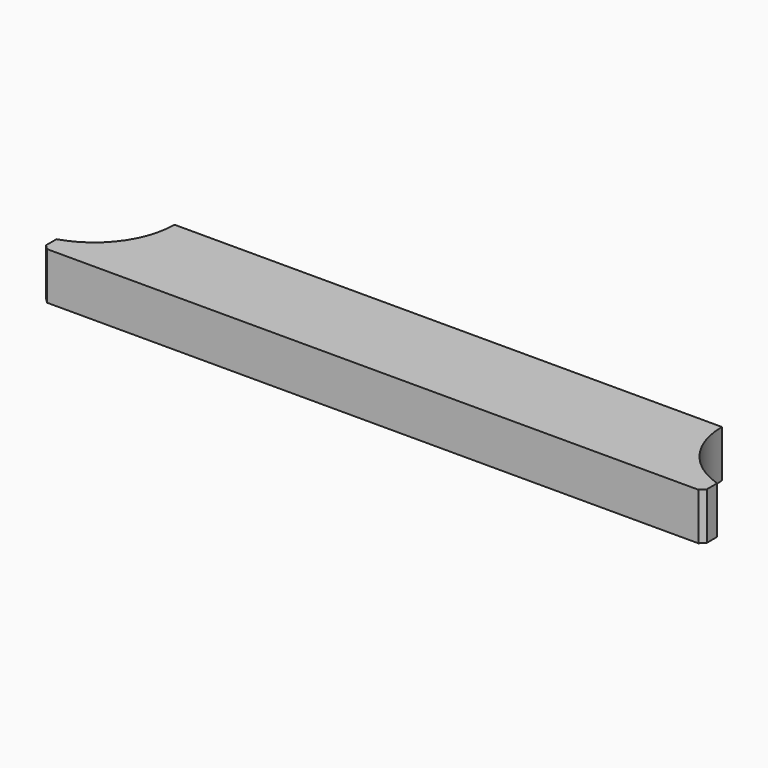
from build123d import *

# Parameters (mm, degrees)
CYLINDER006_R     = 17
CYLINDER006_DEPTH = 10
CYLINDER007_R     = 17
CYLINDER007_DEPTH = 10
BOX003_W          = 140
BOX003_H          = 20
BOX003_DEPTH      = 10
CHAMFER_SIZE      = 1


with BuildPart() as cylinder006:
    # Cylinder006 → Cylinder006 (new body)
    with BuildSketch(Plane(origin=(-75, 0, 0), x_dir=(1, 0, 0), z_dir=(0, 0, 1))):
        Circle(CYLINDER006_R)
    extrude(amount=CYLINDER006_DEPTH)


with BuildPart() as cylinder007:
    # Cylinder007 → Cylinder007 (new body)
    with BuildSketch(Plane(origin=(75, 0, 0), x_dir=(1, 0, 0), z_dir=(0, 0, 1))):
        Circle(CYLINDER007_R)
    extrude(amount=CYLINDER007_DEPTH)


with BuildPart() as chamfer_body:
    # Box003 → Box003 (new body)
    with BuildSketch(Plane(origin=(-70, -20, 0), x_dir=(1, 0, 0), z_dir=(0, 0, 1))):
        with Locations((70, 10)):
            Rectangle(BOX003_W, BOX003_H)
    extrude(amount=BOX003_DEPTH)

    # Cut002: cut Cylinder007
    add(cylinder007.part, mode=Mode.SUBTRACT)

    # Cut003: cut Cylinder006
    add(cylinder006.part, mode=Mode.SUBTRACT)

    # Chamfer
    chamfer_edges = [chamfer_body.edges().sort_by_distance(p)[0] for p in [
        (-70, -20, 5),
        (70, -20, 5),
    ]]
    chamfer(chamfer_edges, length=CHAMFER_SIZE)


solid = chamfer_body.part
